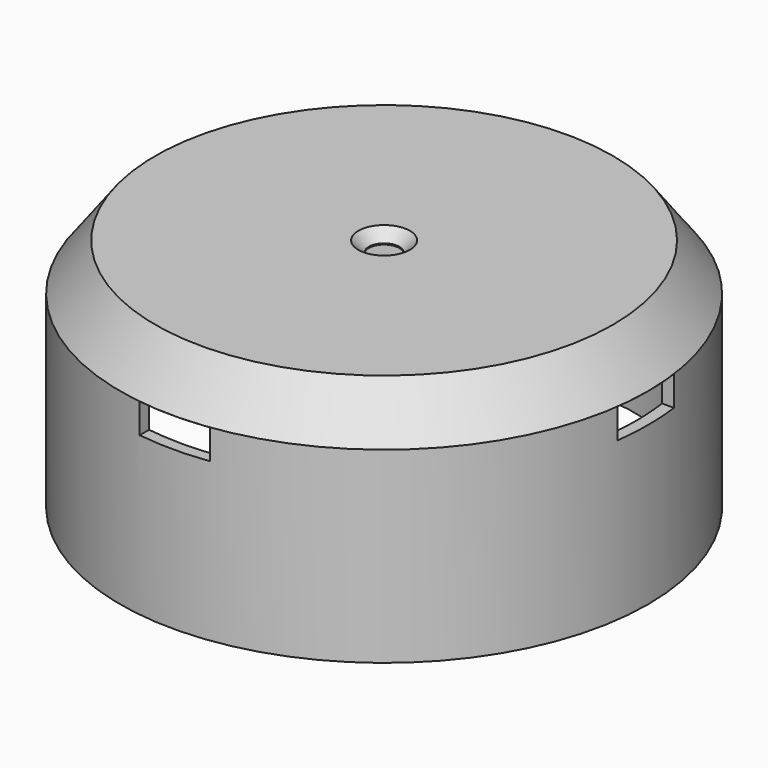
from build123d import *

# Parameters (mm, degrees)
SKETCH_R           = 1.3
POCKET_DEPTH       = 1
SKETCH002_W        = 6
SKETCH002_H        = 2.537703
POCKET001_DEPTH    = 3
POLARPATTERN_COUNT = 4
SKETCH003_R        = 3
SKETCH003_R_2      = 1.3
PAD_DEPTH          = 3
CHAMFER_SIZE       = 0.9


with BuildPart() as part:
    # Sketch001 → Revolution (revolve)
    with BuildSketch(Plane.XZ):
        Polygon((0, 20), (19.5, 20), (22.5, 16), (22.5, 0), (21.5, 0), (21.5, 15.999988), (19.249991, 19), (0, 19), align=None)
    revolve(axis=Axis((0, 0, 0), (0, 0, 1)))

    # Sketch (on Face1 of Revolution) → Pocket (cut)
    with BuildSketch(Plane(origin=(0, 0, 20), x_dir=(-1, 0, 0), z_dir=(0, 0, 1))):
        Circle(SKETCH_R)
    extrude(amount=-POCKET_DEPTH, mode=Mode.SUBTRACT)

    # Sketch002 (on DatumPlane) → Pocket001 (cut)
    with BuildSketch(Plane(origin=(0, 22.5, 8), x_dir=(1, 0, 0), z_dir=(0, 1, 0))):
        with Locations((0, -6.731148)):
            Rectangle(SKETCH002_W, SKETCH002_H)
    pocket001 = extrude(amount=-POCKET001_DEPTH, mode=Mode.SUBTRACT)

    # PolarPattern: Pocket001 ×4 about axis
    polarpattern_axis = Axis((0, 0, 0), (0, 0, 1))
    for i in range(1, POLARPATTERN_COUNT):
        add(pocket001.rotate(polarpattern_axis, i * 360 / POLARPATTERN_COUNT), mode=Mode.SUBTRACT)

    # Sketch003 (on Face9 of PolarPattern) → Pad (join)
    with BuildSketch(Plane(origin=(0, 0, 19), x_dir=(1, 0, 0), z_dir=(0, 0, -1))):
        with Locations((-15, 0)):
            Circle(SKETCH003_R)
        with Locations((-15, 0)):
            Circle(SKETCH003_R_2, mode=Mode.SUBTRACT)
        with Locations((0, 15)):
            Circle(SKETCH003_R)
        with Locations((0, 15)):
            Circle(SKETCH003_R_2, mode=Mode.SUBTRACT)
        with Locations((15, 0)):
            Circle(SKETCH003_R)
        with Locations((15, 0)):
            Circle(SKETCH003_R_2, mode=Mode.SUBTRACT)
        with Locations((0, -15)):
            Circle(SKETCH003_R)
        with Locations((0, -15)):
            Circle(SKETCH003_R_2, mode=Mode.SUBTRACT)
    extrude(amount=PAD_DEPTH)

    # Chamfer
    chamfer_edges = [part.edges().sort_by_distance(p)[0] for p in [
        (1.3, 0, 20),
    ]]
    chamfer(chamfer_edges, length=CHAMFER_SIZE)


solid = part.part
